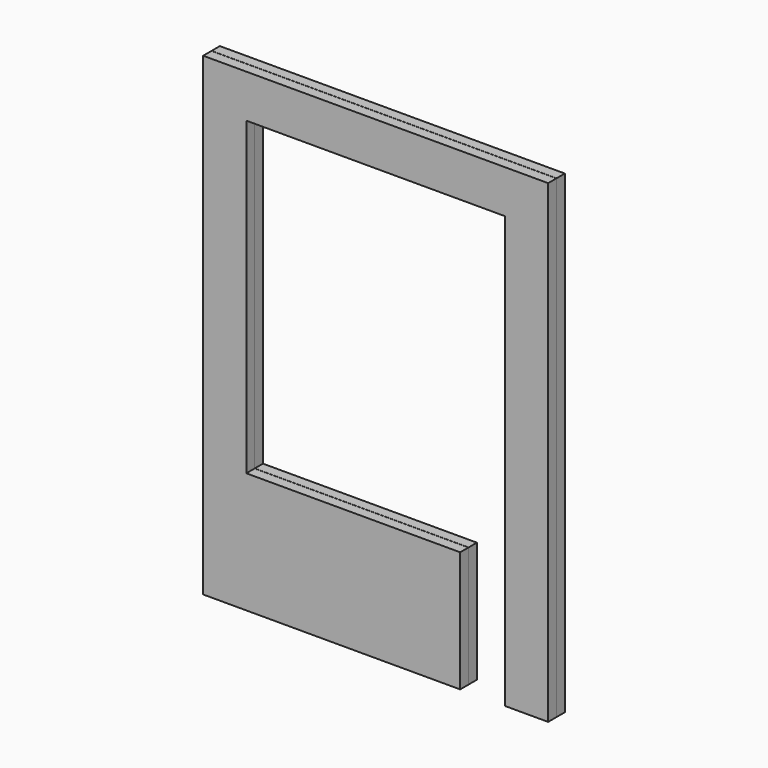
from build123d import *

# Parameters (mm, degrees)
F1_DEPTH = 6
F2_START = 0.1
F2_DEPTH = 6


with BuildPart() as f1:
    # F0 (on Front) → F1 (new body)
    with BuildSketch(Plane.XZ):
        Polygon((0, 275), (0, 0), (149, 0), (149, 70), (25, 70), (25, 250), (175, 250), (175, 70), (175, 0), (200, 0), (200, 275), align=None)
    extrude(amount=F1_DEPTH)


with BuildPart() as f2:
    # F1_face (on face) → F2 (new body)
    with BuildSketch(Plane(origin=(95.6898395722, -6, 121.4209320092), x_dir=(1, 0, 0), z_dir=(0, -1, 0)).offset(F2_START)):
        Polygon((-95.6898395722, 153.5790679908), (-95.6898395722, -121.4209320092), (53.3101604278, -121.4209320092), (53.3101604278, -51.4209320092), (-70.6898395722, -51.4209320092), (-70.6898395722, 128.5790679908), (79.3101604278, 128.5790679908), (79.3101604278, -121.4209320092), (104.3101604278, -121.4209320092), (104.3101604278, 153.5790679908), align=None)
    extrude(amount=F2_DEPTH)


solid = Compound([f1.part, f2.part])
